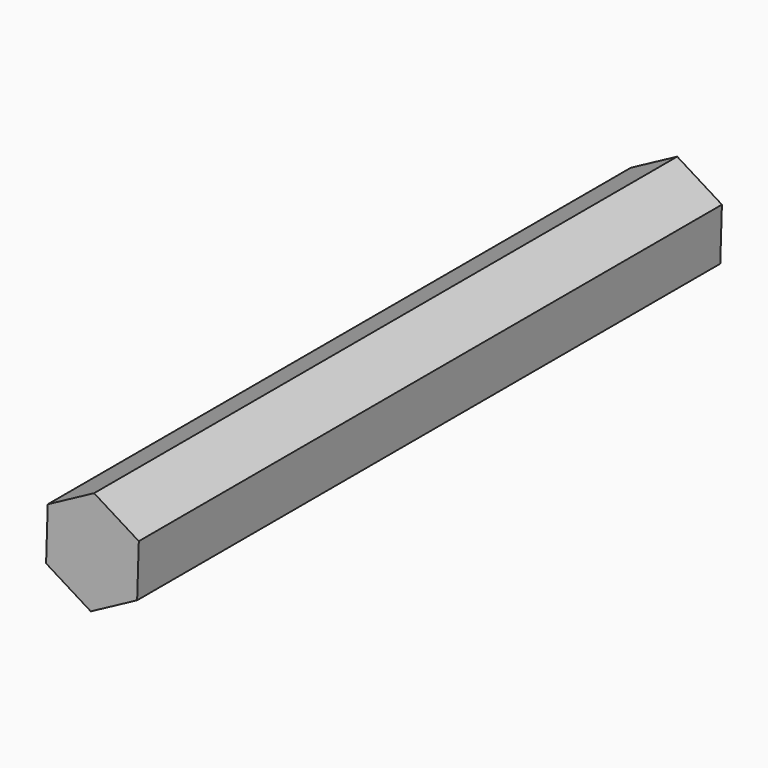
from build123d import *

# Parameters (mm, degrees)
F0_R     = 6.35
F1_DEPTH = 101.6
F3_DEPTH = 101.6


with BuildPart() as f1:
    # F0 (on Front) → F1 (new body)
    with BuildSketch(Plane.XZ):
        Circle(F0_R)
    extrude(amount=F1_DEPTH)

    # F2 (on Front) → F3 (join)
    with BuildSketch(Plane.XZ):
        Polygon((-6.230782, 3.86532), (-6.462856, -3.463355), (-0.232074, -7.328675), (6.230782, -3.86532), (6.462856, 3.463355), (0.232074, 7.328675), align=None)
    extrude(amount=F3_DEPTH)


solid = f1.part
